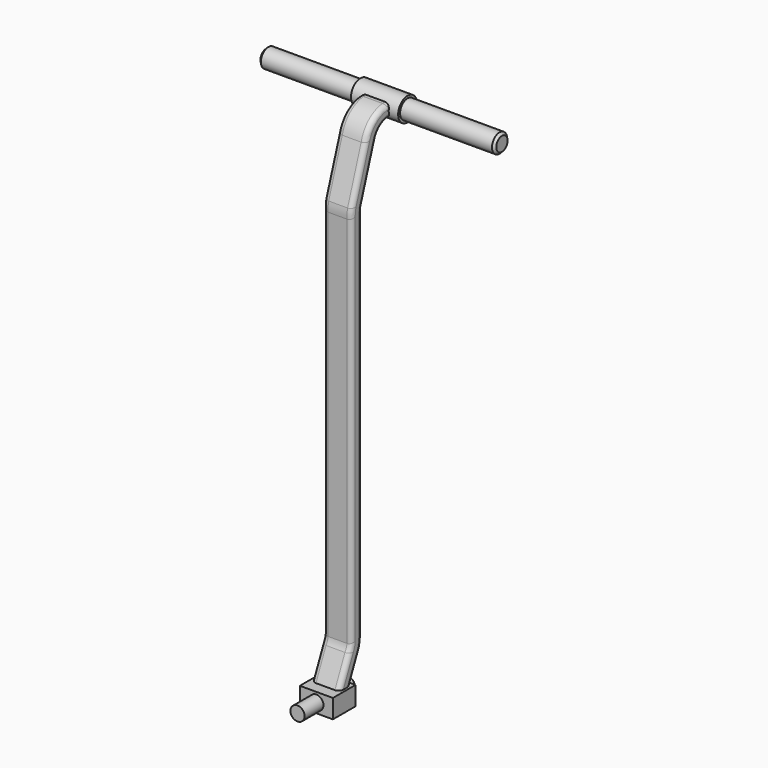
from build123d import *

# Parameters (mm, degrees)
F3_R      = 25
F4_DEPTH  = 50
F5_R      = 20
F6_DEPTH  = 250
F7_SIZE   = 5
F8_W      = 60
F8_H      = 40
F9_DEPTH  = 35
F10_R     = 15
F11_DEPTH = 25
F12_R     = 15
F13_DEPTH = 50
F14_R     = 12.5
F15_DEPTH = 5
F16_R     = 2


with BuildPart() as f2:
    # F2: sweep along a path in F1
    with BuildLine(Plane.YZ) as f2_path:
        Line((0, 0), (35.6326628073, 79.5632662807))
        ThreePointArc((35.6326628073, 79.5632662807), (38.8959770348, 89.5509124888), (40, 100))
        Line((40, 100), (40, 500))
        Line((40, 500), (40, 891.8861169916))
        ThreePointArc((40, 891.8861169916), (40.6456271181, 899.8952291419), (42.5658350975, 907.6975052924))
        Line((42.5658350975, 907.6975052924), (78.6037961003, 1015.8113883008))
        ThreePointArc((78.6037961003, 1015.8113883008), (96.8024467696, 1040.5621092588), (126.0379610028, 1050))
        Line((126.0379610028, 1050), (150, 1050))
    # F0 (on Top) → F2 (sweep)
    with BuildSketch(Plane.XY):
        with BuildLine():
            Line((-20, -15), (20, -15))
            ThreePointArc((20, -15), (27.0710678119, -12.0710678119), (30, -5))
            Line((30, -5), (30, 5))
            ThreePointArc((30, 5), (27.0710678119, 12.0710678119), (20, 15))
            Line((20, 15), (-20, 15))
            ThreePointArc((-20, 15), (-27.0710678119, 12.0710678119), (-30, 5))
            Line((-30, 5), (-30, -5))
            ThreePointArc((-30, -5), (-27.0710678119, -12.0710678119), (-20, -15))
        make_face()
        with BuildLine():
            Line((-20, 10), (20, 10))
            ThreePointArc((20, 10), (23.5355339059, 8.5355339059), (25, 5))
            Line((25, 5), (25, -5))
            ThreePointArc((25, -5), (23.5355339059, -8.5355339059), (20, -10))
            Line((20, -10), (-20, -10))
            ThreePointArc((-20, -10), (-23.5355339059, -8.5355339059), (-25, -5))
            Line((-25, -5), (-25, 5))
            ThreePointArc((-25, 5), (-23.5355339059, 8.5355339059), (-20, 10))
        make_face(mode=Mode.SUBTRACT)
    sweep(path=f2_path.line)

    # F3 (on Right) → F4 (join, symmetric)
    with BuildSketch(Plane.YZ):
        with Locations((149.1591930389, 1051.1897988422)):
            Circle(F3_R)
    extrude(amount=F4_DEPTH, both=True)

    # F5 (on Right) → F6 (join, symmetric)
    with BuildSketch(Plane.YZ):
        with Locations((149.1591930389, 1051.1897988422)):
            Circle(F5_R)
    extrude(amount=F6_DEPTH, both=True)

    # F7
    f7_edges = [f2.edges().sort_by_distance(p)[0] for p in [
        (-250, 129.159193, 1051.189799),
        (250, 129.159193, 1051.189799),
    ]]
    chamfer(f7_edges, length=F7_SIZE)

    # F8 (on Right) → F9 (join, symmetric)
    with BuildSketch(Plane.YZ):
        Rectangle(F8_W, F8_H)
    extrude(amount=F9_DEPTH, both=True)

    # F10 (on face) → F11 (join)
    with BuildSketch(Plane(origin=(0, 30, 0), x_dir=(-1, 0, 0), z_dir=(0, 1, 0))):
        Circle(F10_R)
    extrude(amount=F11_DEPTH)

    # F12 (on face) → F13 (join)
    with BuildSketch(Plane.XZ.offset(30)):
        Circle(F12_R)
    extrude(amount=F13_DEPTH)

    # F14 (on face) → F15 (cut)
    with BuildSketch(Plane(origin=(0, 55, 0), x_dir=(-1, 0, 0), z_dir=(0, 1, 0))):
        Circle(F14_R)
    extrude(amount=-F15_DEPTH, mode=Mode.SUBTRACT)

    # F16
    f16_edges = [f2.edges().sort_by_distance(p)[0] for p in [
        (15, 55, 0),
    ]]
    fillet(f16_edges, radius=F16_R)


solid = f2.part
